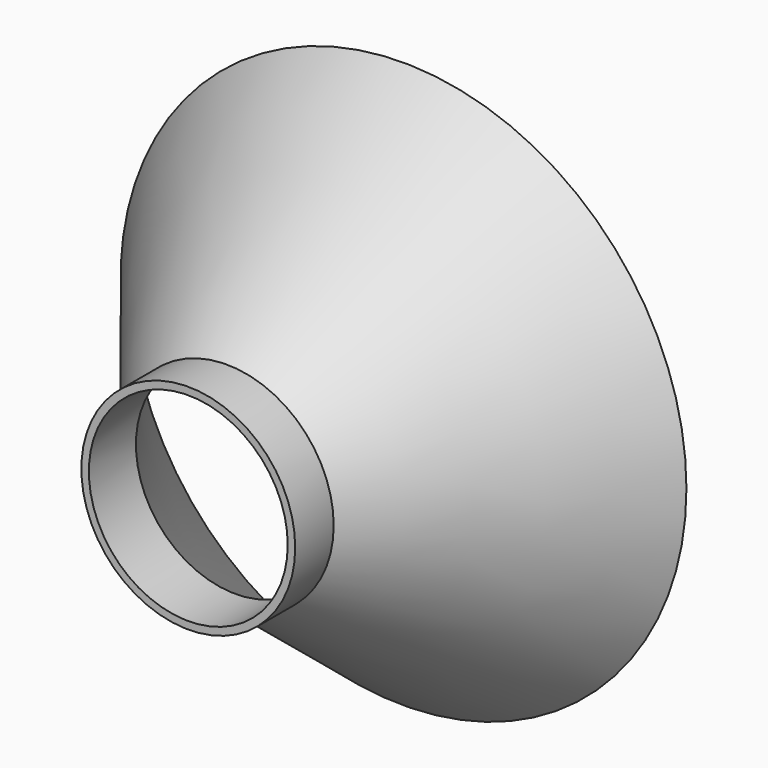
from build123d import *

# Parameters (mm, degrees)
F2_R     = 20.330932
F3_DEPTH = 76.2


with BuildPart() as f1:
    # F0 (on Top) → F1 (revolve)
    with BuildSketch(Plane.XY):
        Polygon((34.927377, 46.017325), (0, 2.195979), (-21.864308, 2.195979), (-21.864308, -9.834165), (0, -9.834165), (0, 0), (35.994954, 45.160774), align=None)
    revolve(axis=Axis((-21.864308, -3.819093, 0), (0, -1, 0)))

    # F2 (on face) → F3 (cut)
    with BuildSketch(Plane.XZ.offset(9.834165)):
        with Locations((-21.864308, 0)):
            Circle(F2_R)
    extrude(amount=-F3_DEPTH, mode=Mode.SUBTRACT)


solid = f1.part
